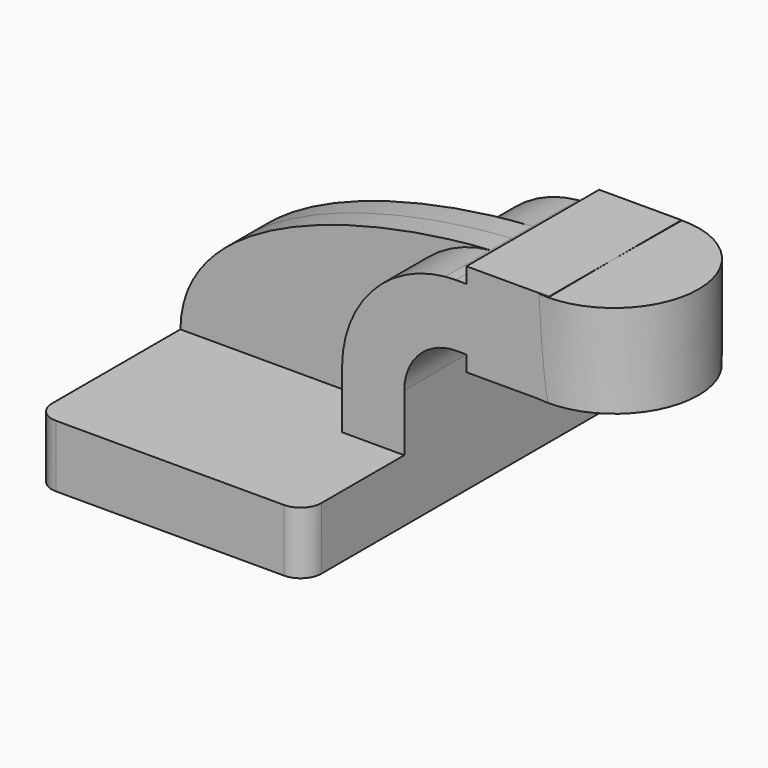
from build123d import *

# Parameters (mm, degrees)
F1_DEPTH = 63.5
F2_DEPTH = 25.4
F3_DEPTH = 7.9375
F5_R     = 6.35


with BuildPart() as f1:
    # F0 (on Front) → F1 (new body, symmetric)
    with BuildSketch(Plane.XZ):
        Polygon((-41.275, -9.525), (41.275, -9.525), (41.275, 9.525), (22.225, 9.525), (-41.275, 9.525), align=None)
    extrude(amount=F1_DEPTH, both=True)

    # F0 (on Front) → F2 (join, symmetric)
    with BuildSketch(Plane.XZ):
        with BuildLine():
            Line((22.225, 9.525), (41.275, 9.525))
            Line((41.275, 9.525), (41.275, 27.0002))
            ThreePointArc((41.275, 27.0002), (45.9246798487, 38.2255201513), (57.15, 42.8752))
            Line((57.15, 42.8752), (60.325, 42.8752))
            Line((60.325, 42.8752), (60.325, 61.9252))
            Line((60.325, 61.9252), (57.15, 61.9252))
            add(Edge.make_bspline(
                [(53.8183914721, 61.765930391), (54.9540123477, 61.8314994044), (56.0654467047, 61.8844891287), (57.15, 61.9252)],
                knots=[108.0492715446, 108.0492715446, 108.0492715446, 108.0492715446, 111.5045361635, 111.5045361635, 111.5045361635, 111.5045361635], degree=3))
            ThreePointArc((53.8183914721, 61.765930391), (31.3032201925, 50.4884864122), (22.225, 27.0002))
            Line((22.225, 27.0002), (22.225, 9.525))
        make_face()
        Polygon((60.325, 61.9252), (60.325, 42.8752), (60.325, 38.1), (85.725, 38.1), (85.5438719422, 66.675), (60.325, 66.675), align=None)
    extrude(amount=F2_DEPTH, both=True)

    # F0 (on Front) → F3 (join, symmetric)
    with BuildSketch(Plane.XZ):
        with BuildLine():
            add(Edge.make_bspline(
                [(-41.275, 9.525), (-40.856674268, 45.3642172034), (18.3064924153, 59.7155276242), (53.8183914721, 61.765930391)],
                knots=[0, 0, 0, 0, 108.0492715446, 108.0492715446, 108.0492715446, 108.0492715446], degree=3))
            Line((-41.275, 9.525), (22.225, 9.525))
            Line((22.225, 9.525), (22.225, 27.0002))
            ThreePointArc((22.225, 27.0002), (31.3032201925, 50.4884864122), (53.8183914721, 61.765930391))
        make_face()
    extrude(amount=F3_DEPTH, both=True)

    # F0 (on Front) → F4 (revolve)
    with BuildSketch(Plane.XZ):
        Polygon((85.5438719422, 66.675), (85.725, 38.1), (111.125, 38.1), (111.125, 66.675), align=None)
    revolve(axis=Axis((85.6344359711, 0, 52.3875), (-0.0063385623, 0, 0.9999799111)))

    # F5
    f5_edges = [f1.edges().sort_by_distance(p)[0] for p in [
        (41.275, -63.5, 0),
        (-41.275, -63.5, 0),
        (-41.275, 63.5, 0),
        (41.275, 63.5, 0),
    ]]
    fillet(f5_edges, radius=F5_R)


solid = f1.part
